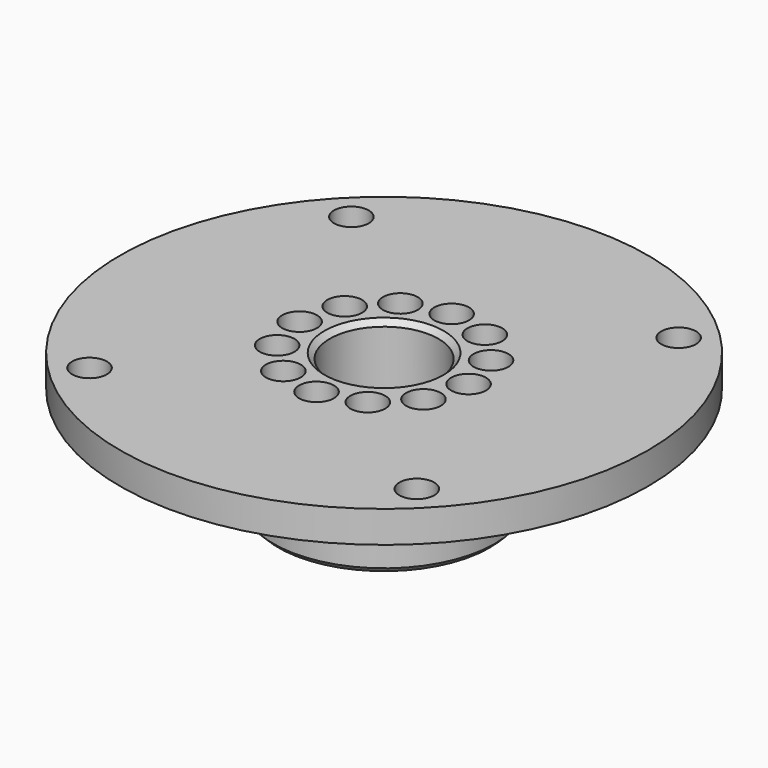
from build123d import *

# Parameters (mm, degrees)
SKETCH_R        = 10.5
PAD_DEPTH       = 10
SKETCH001_R     = 25
SKETCH001_R_2   = 1.65
PAD001_DEPTH    = 3
SKETCH002_R     = 5.15
POCKET_DEPTH    = 13.001
SKETCH003_R     = 1.65
POCKET001_DEPTH = 13.001
CHAMFER_SIZE    = 0.5
CHAMFER001_SIZE = 0.5


with BuildPart() as part:
    # Sketch → Pad (new body)
    with BuildSketch(Plane.XY):
        Circle(SKETCH_R)
    extrude(amount=PAD_DEPTH)

    # Sketch001 (on Face3 of Pad) → Pad001 (join)
    with BuildSketch(Plane.XY.offset(10)):
        Circle(SKETCH001_R)
        with Locations((-15.5, -15.5)):
            Circle(SKETCH001_R_2, mode=Mode.SUBTRACT)
        with Locations((15.5, -15.5)):
            Circle(SKETCH001_R_2, mode=Mode.SUBTRACT)
        with Locations((15.5, 15.5)):
            Circle(SKETCH001_R_2, mode=Mode.SUBTRACT)
        with Locations((-15.5, 15.5)):
            Circle(SKETCH001_R_2, mode=Mode.SUBTRACT)
    extrude(amount=PAD001_DEPTH)

    # Sketch002 (on Face3 of Pad001) → Pocket (cut, through all)
    with BuildSketch(Plane.XY.offset(13)):
        Circle(SKETCH002_R)
    extrude(amount=-POCKET_DEPTH, mode=Mode.SUBTRACT)

    # Sketch003 (on Face3 of Pocket) → Pocket001 (cut, through all)
    with BuildSketch(Plane.XY.offset(13)):
        with Locations((0, 8)):
            Circle(SKETCH003_R)
        with Locations((4, 6.928203)):
            Circle(SKETCH003_R)
        with Locations((6.928203, 4)):
            Circle(SKETCH003_R)
        with Locations((8, 0)):
            Circle(SKETCH003_R)
        with Locations((6.928203, -4)):
            Circle(SKETCH003_R)
        with Locations((4, -6.928203)):
            Circle(SKETCH003_R)
        with Locations((0, -8)):
            Circle(SKETCH003_R)
        with Locations((-4, -6.928203)):
            Circle(SKETCH003_R)
        with Locations((-6.928203, -4)):
            Circle(SKETCH003_R)
        with Locations((-8, 0)):
            Circle(SKETCH003_R)
        with Locations((-6.928203, 4)):
            Circle(SKETCH003_R)
        with Locations((-4, 6.928203)):
            Circle(SKETCH003_R)
    extrude(amount=-POCKET001_DEPTH, mode=Mode.SUBTRACT)

    # Chamfer
    chamfer_edges = [part.edges().sort_by_distance(p)[0] for p in [
        (-5.15, 0, 13),
    ]]
    chamfer(chamfer_edges, length=CHAMFER_SIZE)

    # Chamfer001
    chamfer001_edges = [part.edges().sort_by_distance(p)[0] for p in [
        (-10.5, 0, 0),
    ]]
    chamfer(chamfer001_edges, length=CHAMFER001_SIZE)


solid = part.part
